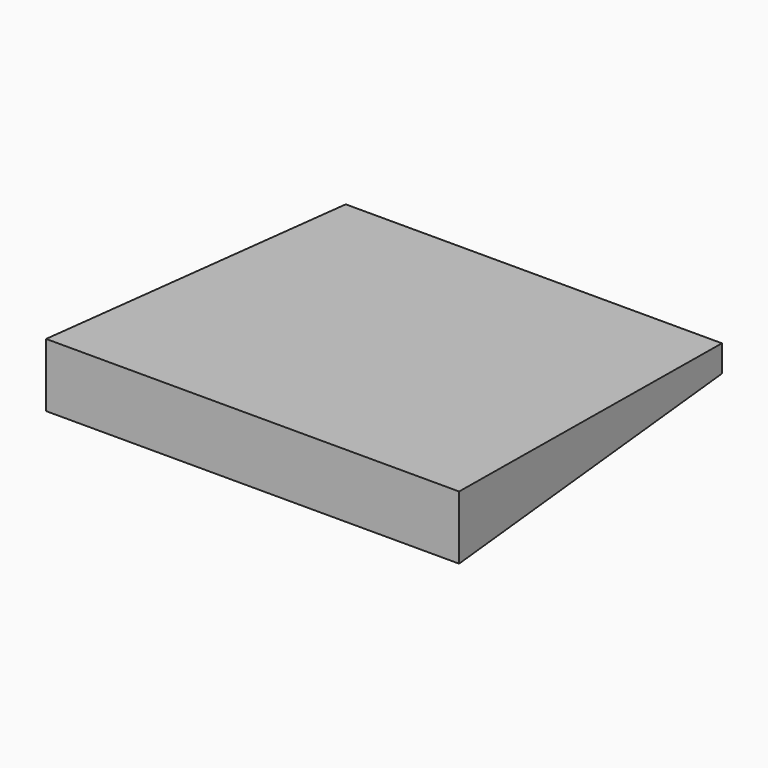
from build123d import *

# Parameters (mm, degrees)
F0_W     = 135.8915101737
F0_H     = 9.6480064094
F1_DEPTH = 127
F1_TAPER = -3


with BuildPart() as f1:
    # F0 (on Front) → F1 (new body)
    with BuildSketch(Plane.XZ):
        with Locations((-44.2480528727, -27.3992363364)):
            Rectangle(F0_W, F0_H)
    extrude(amount=F1_DEPTH, taper=F1_TAPER)


solid = f1.part
